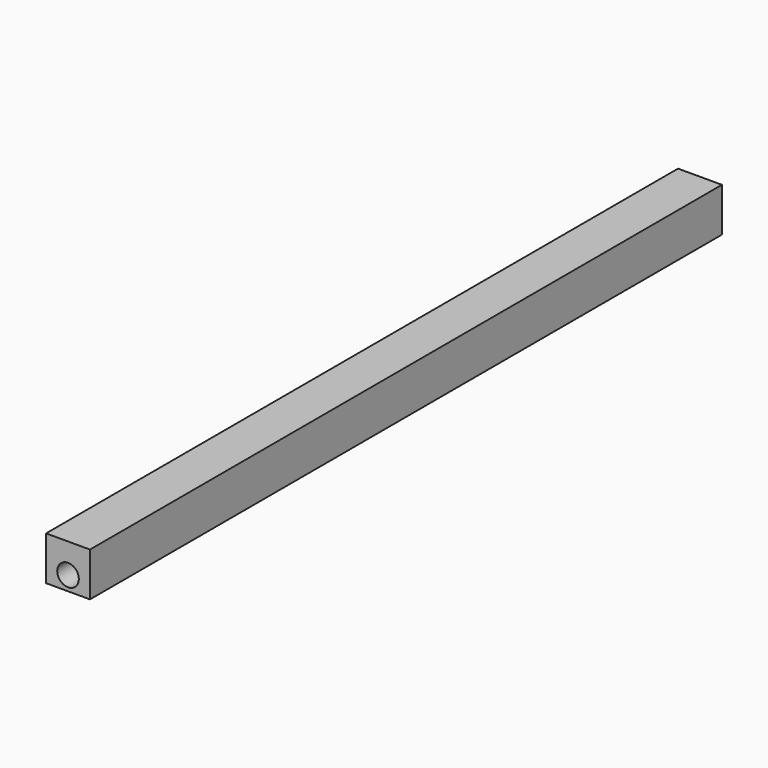
from build123d import *

# Parameters (mm, degrees)
F0_W     = 12.7
F0_H     = 12.7
F1_DEPTH = 228.6
F3_D     = 6.2484
F3_DEPTH = 15.24
F3_TIP   = 1.877208746
F5_D     = 6.2484
F5_DEPTH = 15.24
F5_TIP   = 1.877208746


with BuildPart() as f1:
    # F0 (on Front) → F1 (new body)
    with BuildSketch(Plane.XZ):
        with Locations((6.35, 6.35)):
            Rectangle(F0_W, F0_H)
    extrude(amount=F1_DEPTH)

    # F3
    with Locations(Plane.XZ.offset(228.6)):
        with Locations((6.35, 4.14782)):
            Hole(F3_D / 2, depth=F3_DEPTH)
            with Locations((0, 0, -(F3_DEPTH + F3_TIP / 2))):  # 118° drill point
                Cone(0, F3_D / 2, F3_TIP, mode=Mode.SUBTRACT)

    # F5
    with Locations(Plane(origin=(0, 0, 0), x_dir=(-1, 0, 0), z_dir=(0, 1, 0))):
        with Locations((-6.35, 4.14782)):
            Hole(F5_D / 2, depth=F5_DEPTH)
            with Locations((0, 0, -(F5_DEPTH + F5_TIP / 2))):  # 118° drill point
                Cone(0, F5_D / 2, F5_TIP, mode=Mode.SUBTRACT)


solid = f1.part
